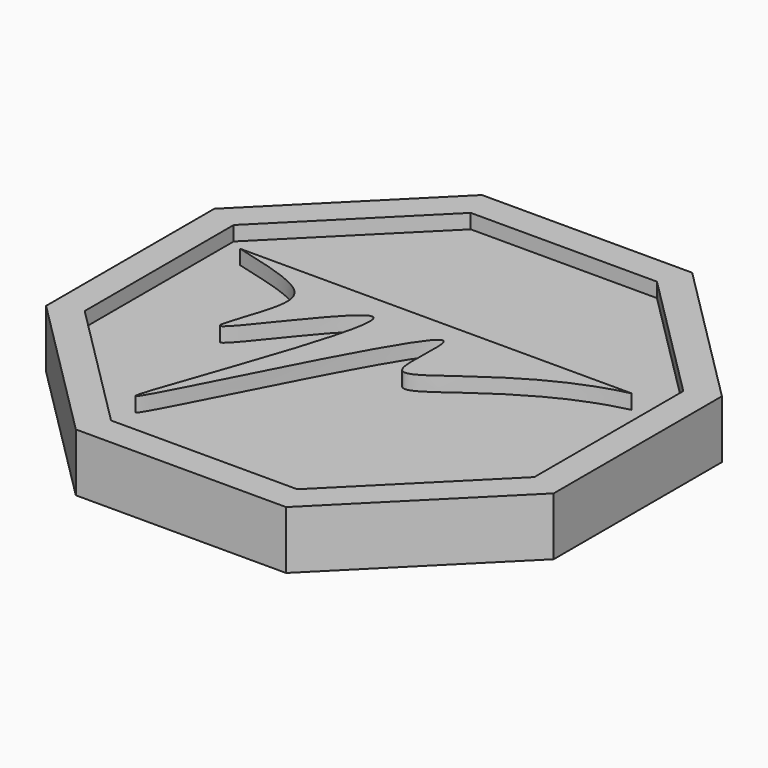
from build123d import *

# Parameters (mm, degrees)
F1_DEPTH = 2
F2_DEPTH = 1.5


with BuildPart() as f1:
    # F0 (on Top) → F1 (new body)
    with BuildSketch(Plane.XY):
        Polygon((-3.6243686708, -8.75), (3.6243686708, -8.75), (8.75, -3.6243686708), (8.75, 3.6243686708), (3.6243686708, 8.75), (-3.6243686708, 8.75), (-8.75, 3.6243686708), (-8.75, -3.6243686708), align=None)
        Polygon((7.75, 3.2101551084), (7.75, -3.2101551084), (3.2101551084, -7.75), (-3.2101551084, -7.75), (-7.75, -3.2101551084), (-7.75, 3.2101551084), (-3.2101551084, 7.75), (3.2101551084, 7.75), align=None, mode=Mode.SUBTRACT)
    extrude(amount=F1_DEPTH)


with BuildPart() as f1b:
    # F0 (on Top) → F1, piece 2 (new body)
    with BuildSketch(Plane.XY):
        with BuildLine():
            Line((6.75, 2.2385702382), (-6.75, 2.2385702382))
            add(Edge.make_bspline(
                [(-6.75, 2.2385702382), (-4.208272589, 1.5922287497), (-3.2838460011, 1.1111580556), (-5.3915167133, -3.5163610872), (1.1195887936, 5.961863319), (-6.7444728499, -13.5421892443), (1.7812913448, 4.8822403105), (0.2970349794, -2.8276414329), (3.2617528905, 1.4334352447), (6.75, 2.2385702382)],
                knots=[0, 0, 0, 0, 0.1246495782, 0.2170055941, 0.3526153393, 0.5399201669, 0.7386432265, 0.8319772922, 1, 1, 1, 1], degree=3))
        make_face()
    extrude(amount=F1_DEPTH)


with BuildPart() as f2:
    # F0 (on Top) → F2 (new body)
    with BuildSketch(Plane.XY):
        Polygon((3.2101551084, -7.75), (7.75, -3.2101551084), (7.75, 3.2101551084), (3.2101551084, 7.75), (-3.2101551084, 7.75), (-7.75, 3.2101551084), (-7.75, -3.2101551084), (-3.2101551084, -7.75), align=None)
        with BuildLine():
            add(Edge.make_bspline(
                [(-6.75, 2.2385702382), (-4.208272589, 1.5922287497), (-3.2838460011, 1.1111580556), (-5.3915167133, -3.5163610872), (1.1195887936, 5.961863319), (-6.7444728499, -13.5421892443), (1.7812913448, 4.8822403105), (0.2970349794, -2.8276414329), (3.2617528905, 1.4334352447), (6.75, 2.2385702382)],
                knots=[0, 0, 0, 0, 0.1246495782, 0.2170055941, 0.3526153393, 0.5399201669, 0.7386432265, 0.8319772922, 1, 1, 1, 1], degree=3))
            Line((-6.75, 2.2385702382), (6.75, 2.2385702382))
        make_face(mode=Mode.SUBTRACT)
    extrude(amount=F2_DEPTH)


solid = Compound([f1.part, f1b.part, f2.part])
